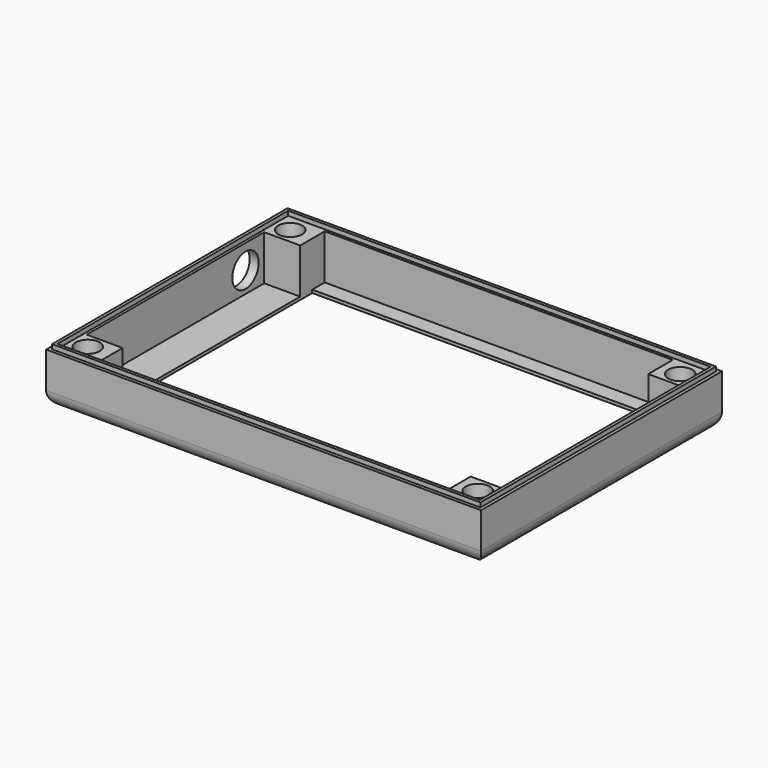
from build123d import *

# Parameters (mm, degrees)
BOX025_W                  = 116.06
BOX025_H                  = 84
BOX025_DEPTH              = 1
BOX026_W                  = 139
BOX026_H                  = 74
BOX026_DEPTH              = 1
BOX024_W                  = 139
BOX024_H                  = 74
BOX024_DEPTH              = 1
BOX023_W                  = 116.06
BOX023_H                  = 94.36
BOX023_DEPTH              = 1
BOX022_W                  = 139
BOX022_H                  = 74
BOX022_DEPTH              = 20
BOX021_W                  = 147
BOX021_H                  = 105
BOX021_DEPTH              = 10
BOX_W                     = 116.06
BOX_H                     = 94.36
BOX_DEPTH                 = 10
BOX019_W                  = 40
BOX019_H                  = 2
BOX019_DEPTH              = 1
ARRAY_Y_COUNT             = 2
ARRAY_Y_PITCH             = 60
BOX020_W                  = 2
BOX020_H                  = 60
BOX020_DEPTH              = 1
ARRAY028_X_COUNT          = 2
ARRAY028_X_PITCH          = 40
BOX018_W                  = 40
BOX018_H                  = 60
BOX018_DEPTH              = 5
CYLINDER023_R             = 4
CYLINDER023_DEPTH         = 25
ARRAY027_X_COUNT          = 2
ARRAY027_X_PITCH          = 130.06
ARRAY027_Y_COUNT          = 2
ARRAY027_Y_PITCH          = 84.36
BOX017_W                  = 100
BOX017_H                  = 94.36
BOX017_DEPTH              = 27.5
CYLINDER010_R             = 1
CYLINDER010_DEPTH         = 10
ARRAY008_COUNT            = 8
CYLINDER009_R             = 1
CYLINDER009_DEPTH         = 10
CYLINDER008_R             = 11
CYLINDER008_DEPTH         = 1
BOX012_W                  = 40
BOX012_H                  = 60
BOX012_DEPTH              = 1
CYLINDER007_R             = 2.75
CYLINDER007_DEPTH         = 4
CYLINDER006_R             = 2.75
CYLINDER006_DEPTH         = 4
CYLINDER005_R             = 3
CYLINDER005_DEPTH         = 1
CYLINDER004_R             = 3
CYLINDER004_DEPTH         = 1
BOX011_W                  = 1
BOX011_H                  = 98.16
BOX011_DEPTH              = 1.5
ARRAY007_X_COUNT          = 2
ARRAY007_X_PITCH          = 141.86
CYLINDER003_R             = 5.5
CYLINDER003_DEPTH         = 19
CYLINDER003_PITCH_ANGLE   = 90
BOX007_W                  = 7
BOX007_H                  = 7
BOX007_DEPTH              = 19.5
ARRAY003_X_COUNT          = 2
ARRAY003_X_PITCH          = 77.06
ARRAY003_Y_COUNT          = 2
ARRAY003_Y_PITCH          = 87.36
CYLINDER002_R             = 1.25
CYLINDER002_DEPTH         = 43
ARRAY002_X_COUNT          = 2
ARRAY002_X_PITCH          = 130.06
ARRAY002_Y_COUNT          = 2
ARRAY002_Y_PITCH          = 84.36
BOX006_W                  = 116.06
BOX006_H                  = 94.36
BOX006_DEPTH              = 14
BOX005_W                  = 145.06
BOX005_H                  = 100.36
BOX005_DEPTH              = 17
BOX010_W                  = 142.76
BOX010_H                  = 1
BOX010_DEPTH              = 1.5
ARRAY006_Y_COUNT          = 2
ARRAY006_Y_PITCH          = 97.16
FILLET_R                  = 5
FUSION010_PLACEMENT_ANGLE = 180


with BuildPart() as obj1:
    # Box025 → Box025 (new body)
    with BuildSketch(Plane(origin=(17, 10.8, 1.5), x_dir=(1, 0, 0), z_dir=(0, 0, 1))):
        with Locations((58.03, 42)):
            Rectangle(BOX025_W, BOX025_H)
    extrude(amount=BOX025_DEPTH)


with BuildPart() as obj2:
    # Box026 → Box026 (new body)
    with BuildSketch(Plane(origin=(5, 15.8, 1.5), x_dir=(1, 0, 0), z_dir=(0, 0, 1))):
        with Locations((69.5, 37)):
            Rectangle(BOX026_W, BOX026_H)
    extrude(amount=BOX026_DEPTH)


with BuildPart() as obj3:
    # Box024 → Box024 (new body)
    with BuildSketch(Plane(origin=(5, 15.8, 1.5), x_dir=(1, 0, 0), z_dir=(0, 0, 1))):
        with Locations((69.5, 37)):
            Rectangle(BOX024_W, BOX024_H)
    extrude(amount=BOX024_DEPTH)


with BuildPart() as obj4:
    # Box023 → Box023 (new body)
    with BuildSketch(Plane(origin=(17, 5.64, 1.5), x_dir=(1, 0, 0), z_dir=(0, 0, 1))):
        with Locations((58.03, 47.18)):
            Rectangle(BOX023_W, BOX023_H)
    extrude(amount=BOX023_DEPTH)


with BuildPart() as cube002:
    # Box022 → Box022 (new body)
    with BuildSketch(Plane(origin=(5, 15.8, 0.5), x_dir=(1, 0, 0), z_dir=(0, 0, 1))):
        with Locations((69.5, 37)):
            Rectangle(BOX022_W, BOX022_H)
    extrude(amount=BOX022_DEPTH)


with BuildPart() as cube001:
    # Box021 → Box021 (new body)
    with BuildSketch(Plane(origin=(2, 0, -8.5), x_dir=(1, 0, 0), z_dir=(0, 0, 1))):
        with Locations((73.5, 52.5)):
            Rectangle(BOX021_W, BOX021_H)
    extrude(amount=BOX021_DEPTH)


with BuildPart() as cube:
    # Box → Box (new body)
    with BuildSketch(Plane(origin=(17, 5.64, 1.5), x_dir=(1, 0, 0), z_dir=(0, 0, 1))):
        with Locations((58.03, 47.18)):
            Rectangle(BOX_W, BOX_H)
    extrude(amount=BOX_DEPTH)


with BuildPart() as array_border_rfid_short:
    # Box019 → Box019 (new body)
    with BuildSketch(Plane(origin=(85, 23, 32.5), x_dir=(1, 0, 0), z_dir=(0, 0, 1))):
        with Locations((20, 1)):
            Rectangle(BOX019_W, BOX019_H)
    extrude(amount=BOX019_DEPTH)

    # Array Y: array_border_rfid_short ×2


with BuildPart() as array_border_rfid_short_1:
    add(array_border_rfid_short.part)
    with Locations(*[(0, i * ARRAY_Y_PITCH, 0) for i in range(1, ARRAY_Y_COUNT)]):
        add(array_border_rfid_short.part)


with BuildPart() as border_rfid_slot:
    # Box020 → Box020 (new body)
    with BuildSketch(Plane(origin=(84, 24, 32.5), x_dir=(1, 0, 0), z_dir=(0, 0, 1))):
        with Locations((1, 30)):
            Rectangle(BOX020_W, BOX020_H)
    extrude(amount=BOX020_DEPTH)

    # Array028 X: border_rfid_slot ×2


with BuildPart() as border_rfid_slot_1:
    add(border_rfid_slot.part)
    with Locations(*[(i * ARRAY028_X_PITCH, 0, 0) for i in range(1, ARRAY028_X_COUNT)]):
        add(border_rfid_slot.part)

    # Fusion: union array_border_rfid_short
    add(array_border_rfid_short_1.part)


with BuildPart() as slot_for_rfid_hole:
    # Box018 → Box018 (new body)
    with BuildSketch(Plane(origin=(85, 24, 29.5), x_dir=(1, 0, 0), z_dir=(0, 0, 1))):
        with Locations((20, 30)):
            Rectangle(BOX018_W, BOX018_H)
    extrude(amount=BOX018_DEPTH)


with BuildPart() as array027:
    # Cylinder023 → Cylinder023 (new body)
    with BuildSketch(Plane(origin=(3.5, 8, 0), x_dir=(1, 0, 0), z_dir=(0, 0, 1))):
        Circle(CYLINDER023_R)
    extrude(amount=CYLINDER023_DEPTH)

    # Array027 X: Array027 ×2


with BuildPart() as array027_1:
    add(array027.part)
    with Locations(*[(i * ARRAY027_X_PITCH, 0, 0) for i in range(1, ARRAY027_X_COUNT)]):
        add(array027.part)

    # Array027 Y: Array027 ×2


with BuildPart() as array027_2:
    add(array027_1.part)
    with Locations(*[(0, i * ARRAY027_Y_PITCH, 0) for i in range(1, ARRAY027_Y_COUNT)]):
        add(array027_1.part)


with BuildPart() as erase_supports_top:
    # Box017 → Box017 (new body)
    with BuildSketch(Plane(origin=(11, 3, 3), x_dir=(1, 0, 0), z_dir=(0, 0, 1))):
        with Locations((50, 47.18)):
            Rectangle(BOX017_W, BOX017_H)
    extrude(amount=BOX017_DEPTH)


with BuildPart() as obj5:
    # Cylinder010 → Cylinder010 (new body)
    with BuildSketch(Plane(origin=(18.45, 78.5, 49.5), x_dir=(1, 0, 0), z_dir=(0, 0, 1))):
        Circle(CYLINDER010_R)
    extrude(amount=CYLINDER010_DEPTH)

    # Array008: obj5 ×8 about axis
    array008_axis = Axis((25.45, 78.5, 49.5), (0, 0, 1))


with BuildPart() as obj5_1:
    add(obj5.part)
    for i in range(1, ARRAY008_COUNT):
        add(obj5.part.rotate(array008_axis, i * 360 / ARRAY008_COUNT))


with BuildPart() as obj6:
    # Cylinder009 → Cylinder009 (new body)
    with BuildSketch(Plane(origin=(25.446, 78.5, 49.5), x_dir=(1, 0, 0), z_dir=(0, 0, 1))):
        Circle(CYLINDER009_R)
    extrude(amount=CYLINDER009_DEPTH)


with BuildPart() as slot_for_buzzer:
    # Cylinder008 → Cylinder008 (new body)
    with BuildSketch(Plane(origin=(39.4, 79.4, 54.5), x_dir=(1, 0, 0), z_dir=(0, 0, 1))):
        Circle(CYLINDER008_R)
    extrude(amount=CYLINDER008_DEPTH)


with BuildPart() as slot_for_rfid:
    # Box012 → Box012 (new body)
    with BuildSketch(Plane(origin=(85, 24, 54.5), x_dir=(1, 0, 0), z_dir=(0, 0, 1))):
        with Locations((20, 30)):
            Rectangle(BOX012_W, BOX012_H)
    extrude(amount=BOX012_DEPTH)


with BuildPart() as led2_hole_up001:
    # Cylinder007 → Cylinder007 (new body)
    with BuildSketch(Plane(origin=(71.9, 84.5, 51.5), x_dir=(1, 0, 0), z_dir=(0, 0, 1))):
        Circle(CYLINDER007_R)
    extrude(amount=CYLINDER007_DEPTH)


with BuildPart() as led1_hole_up001:
    # Cylinder006 → Cylinder006 (new body)
    with BuildSketch(Plane(origin=(71.9, 74.3, 51.5), x_dir=(1, 0, 0), z_dir=(0, 0, 1))):
        Circle(CYLINDER006_R)
    extrude(amount=CYLINDER006_DEPTH)


with BuildPart() as led1_hole_up:
    # Cylinder005 → Cylinder005 (new body)
    with BuildSketch(Plane(origin=(71.9, 74.3, 52.5), x_dir=(1, 0, 0), z_dir=(0, 0, 1))):
        Circle(CYLINDER005_R)
    extrude(amount=CYLINDER005_DEPTH)


with BuildPart() as led2_hole_up:
    # Cylinder004 → Cylinder004 (new body)
    with BuildSketch(Plane(origin=(71.9, 84.5, 52.5), x_dir=(1, 0, 0), z_dir=(0, 0, 1))):
        Circle(CYLINDER004_R)
    extrude(amount=CYLINDER004_DEPTH)


with BuildPart() as obj7:
    # Box011 → Box011 (new body)
    with BuildSketch(Plane(origin=(-2.9, 1.1, 34.5), x_dir=(1, 0, 0), z_dir=(0, 0, 1))):
        with Locations((0.5, 49.08)):
            Rectangle(BOX011_W, BOX011_H)
    extrude(amount=BOX011_DEPTH)

    # Array007 X: obj7 ×2


with BuildPart() as obj7_1:
    add(obj7.part)
    with Locations(*[(i * ARRAY007_X_PITCH, 0, 0) for i in range(1, ARRAY007_X_COUNT)]):
        add(obj7.part)


with BuildPart() as hole_power_supply:
    # Cylinder003 → Cylinder003 (new body)
    with BuildSketch(Plane.XY):
        Circle(CYLINDER003_R)
    extrude(amount=CYLINDER003_DEPTH)


with BuildPart() as hole_power_supply_1:
    # Cylinder003 pitch: moved
    add(hole_power_supply.part.rotate(Axis((0, 0, 0), (0, 1, 0)), CYLINDER003_PITCH_ANGLE))


with BuildPart() as hole_power_supply_2:
    # Cylinder003 placement: moved
    add(hole_power_supply_1.part.moved(Location((-5, 21, 23))))


with BuildPart() as array_top_case_support_master:
    # Box007 → Box007 (new body)
    with BuildSketch(Plane(origin=(18.5, 3, -10.5), x_dir=(1, 0, 0), z_dir=(0, 0, 1))):
        with Locations((3.5, 3.5)):
            Rectangle(BOX007_W, BOX007_H)
    extrude(amount=BOX007_DEPTH)

    # Array003 X: array_top_case_support_master ×2


with BuildPart() as array_top_case_support_master_1:
    add(array_top_case_support_master.part)
    with Locations(*[(i * ARRAY003_X_PITCH, 0, 0) for i in range(1, ARRAY003_X_COUNT)]):
        add(array_top_case_support_master.part)

    # Array003 Y: array_top_case_support_master ×2


with BuildPart() as array_top_case_support_master_2:
    add(array_top_case_support_master_1.part)
    with Locations(*[(0, i * ARRAY003_Y_PITCH, 0) for i in range(1, ARRAY003_Y_COUNT)]):
        add(array_top_case_support_master_1.part)


with BuildPart() as array_top_case_support_master_3:
    # Array003 placement: moved
    add(array_top_case_support_master_2.part.moved(Location((0, 0, 36))))


with BuildPart() as array002:
    # Cylinder002 → Cylinder002 (new body)
    with BuildSketch(Plane(origin=(3.5, 8, 0), x_dir=(1, 0, 0), z_dir=(0, 0, 1))):
        Circle(CYLINDER002_R)
    extrude(amount=CYLINDER002_DEPTH)

    # Array002 X: Array002 ×2


with BuildPart() as array002_1:
    add(array002.part)
    with Locations(*[(i * ARRAY002_X_PITCH, 0, 0) for i in range(1, ARRAY002_X_COUNT)]):
        add(array002.part)

    # Array002 Y: Array002 ×2


with BuildPart() as array002_2:
    add(array002_1.part)
    with Locations(*[(0, i * ARRAY002_Y_PITCH, 0) for i in range(1, ARRAY002_Y_COUNT)]):
        add(array002_1.part)


with BuildPart() as top_case_master_emptying:
    # Box006 → Box006 (new body)
    with BuildSketch(Plane(origin=(11, 3, 31), x_dir=(1, 0, 0), z_dir=(0, 0, 1))):
        with Locations((58.03, 47.18)):
            Rectangle(BOX006_W, BOX006_H)
    extrude(amount=BOX006_DEPTH)


with BuildPart() as fusion007:
    # Box005 → Box005 (new body)
    with BuildSketch(Plane(origin=(-4, 0, 31), x_dir=(1, 0, 0), z_dir=(0, 0, 1))):
        with Locations((72.53, 50.18)):
            Rectangle(BOX005_W, BOX005_H)
    extrude(amount=BOX005_DEPTH)

    # Cut002: cut top_case_master_emptying
    add(top_case_master_emptying.part, mode=Mode.SUBTRACT)

    # Cut003: cut Array002
    add(array002_2.part, mode=Mode.SUBTRACT)

    # Fusion004: union array_top_case_support_master
    add(array_top_case_support_master_3.part)


with BuildPart() as fusion007_1:
    # Fusion004 placement: moved
    add(fusion007.part.moved(Location((0, 0, -16))))

    # Cut004: cut hole_power_supply
    add(hole_power_supply_2.part, mode=Mode.SUBTRACT)


with BuildPart() as fusion007_2:
    # Cut004 placement: moved
    add(fusion007_1.part.moved(Location((0, 0, 21))))

    # Fusion007: union obj7
    add(obj7_1.part)


with BuildPart() as cut029:
    # Box010 → Box010 (new body)
    with BuildSketch(Plane(origin=(-2.9, 1.1, 34.5), x_dir=(1, 0, 0), z_dir=(0, 0, 1))):
        with Locations((71.38, 0.5)):
            Rectangle(BOX010_W, BOX010_H)
    extrude(amount=BOX010_DEPTH)

    # Array006 Y: Cut029 ×2


with BuildPart() as cut029_1:
    add(cut029.part)
    with Locations(*[(0, i * ARRAY006_Y_PITCH, 0) for i in range(1, ARRAY006_Y_COUNT)]):
        add(cut029.part)

    # Fusion008: union Fusion007
    add(fusion007_2.part)


with BuildPart() as cut029_2:
    # Fusion008 placement: moved
    add(cut029_1.part.moved(Location((0, 0, 2.5))))

    # Cut005: cut led2_hole_up
    add(led2_hole_up.part, mode=Mode.SUBTRACT)

    # Cut006: cut led1_hole_up
    add(led1_hole_up.part, mode=Mode.SUBTRACT)

    # Cut007: cut led1_hole_up001
    add(led1_hole_up001.part, mode=Mode.SUBTRACT)

    # Cut008: cut led2_hole_up001
    add(led2_hole_up001.part, mode=Mode.SUBTRACT)

    # Fillet
    fillet_edges = [cut029_2.edges().sort_by_distance(p)[0] for p in [
        (-4, 50.18, 55.5),
        (68.53, 0, 55.5),
        (68.53, 100.36, 55.5),
        (141.06, 50.18, 55.5),
    ]]
    fillet(fillet_edges, radius=FILLET_R)

    # Cut009: cut slot_for_rfid
    add(slot_for_rfid.part, mode=Mode.SUBTRACT)

    # Fusion009: union slot_for_buzzer
    add(slot_for_buzzer.part)

    # Cut010: cut obj6
    add(obj6.part, mode=Mode.SUBTRACT)

    # Cut011: cut obj5
    add(obj5_1.part, mode=Mode.SUBTRACT)


with BuildPart() as cut029_3:
    # Cut011 placement: moved
    add(cut029_2.part.moved(Location((0, 0, -22))))

    # Cut015: cut erase_supports_top
    add(erase_supports_top.part, mode=Mode.SUBTRACT)

    # Cut024: cut Array027
    add(array027_2.part, mode=Mode.SUBTRACT)

    # Cut: cut slot_for_rfid_hole
    add(slot_for_rfid_hole.part, mode=Mode.SUBTRACT)

    # Fusion010: union border_rfid_slot
    add(border_rfid_slot_1.part)


with BuildPart() as cut029_4:
    # Fusion010 placement: moved
    add(cut029_3.part.moved(Location((6, 103, 34))).rotate(Axis((6, 103, 34), (1, 0, 0)), FUSION010_PLACEMENT_ANGLE))

    # Cut025: cut Cube
    add(cube.part, mode=Mode.SUBTRACT)

    # Cut026: cut Cube001
    add(cube001.part, mode=Mode.SUBTRACT)

    # Cut027: cut Cube002
    add(cube002.part, mode=Mode.SUBTRACT)

    # Fusion011: union obj4
    add(obj4.part)

    # Cut028: cut obj3
    add(obj3.part, mode=Mode.SUBTRACT)

    # Fusion012: union obj2
    add(obj2.part)

    # Cut029: cut obj1
    add(obj1.part, mode=Mode.SUBTRACT)


solid = cut029_4.part
